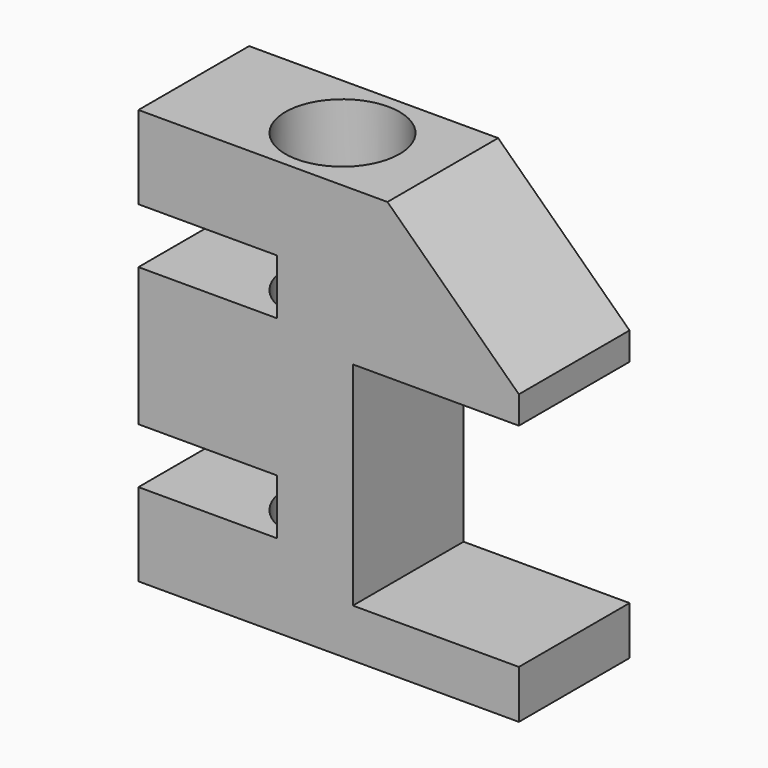
from build123d import *

# Parameters (mm, degrees)
F1_DEPTH = 20
F2_R     = 8.25
F3_DEPTH = 60.001
F5_D     = 6.8
F5_DEPTH = 20


with BuildPart() as f1:
    # F0 (on Front) → F1 (new body)
    with BuildSketch(Plane.XZ):
        Polygon((-36, -33.888159), (-36, -45.888159), (19, -45.888159), (19, -38.888159), (-5, -38.888159), (-5, -8.188159), (19, -8.188159), (19, -4.188159), (0, 14.111841), (-36, 14.111841), (-36, 2.111841), (-16, 2.111841), (-16, -5.888159), (-36, -5.888159), (-36, -25.888159), (-16, -25.888159), (-16, -33.888159), align=None)
    extrude(amount=-F1_DEPTH)

    # F2 (on face) → F3 (cut, through all)
    with BuildSketch(Plane.XY.offset(14.111841)):
        with Locations((-14.5, 10)):
            Circle(F2_R)
    extrude(amount=-F3_DEPTH, mode=Mode.SUBTRACT)

    # F5
    with Locations(Plane(origin=(-36, 0, 0), x_dir=(0, -1, 0), z_dir=(-1, 0, 0))):
        with Locations((-10, -15.888159)):
            Hole(F5_D / 2, depth=F5_DEPTH)


solid = f1.part
